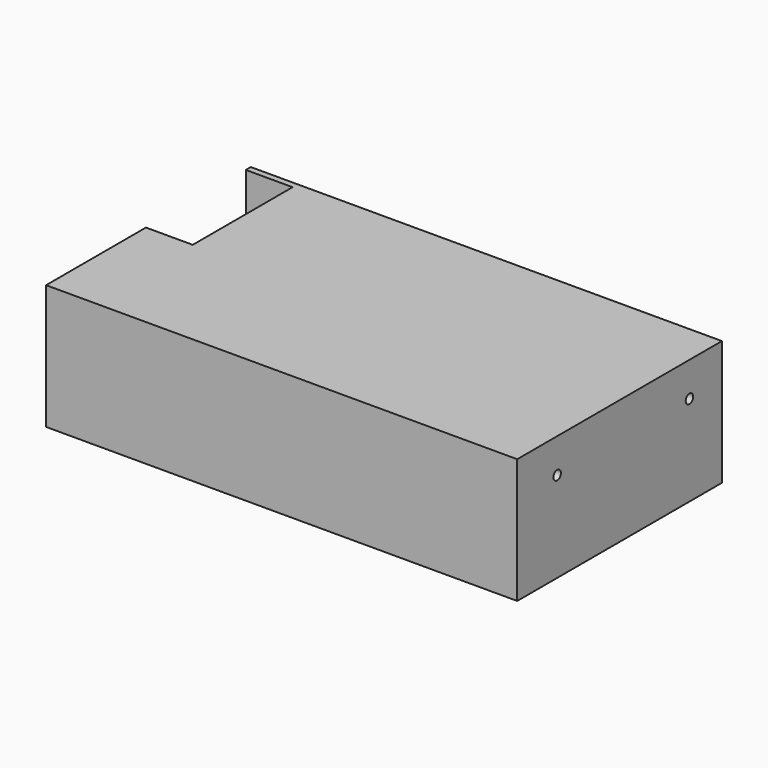
from build123d import *

# Parameters (mm, degrees)
F0_W     = 151
F0_H     = 82
F1_DEPTH = 40
F2_W     = 15
F2_H     = 40
F3_DEPTH = 41
F4_W     = 22.5
F4_H     = 30
F5_DEPTH = 50
F6_R     = 1.5
F7_DEPTH = 5


with BuildPart() as f1:
    # F0 (on Top) → F1 (new body)
    with BuildSketch(Plane.XY):
        Rectangle(F0_W, F0_H)
    extrude(amount=F1_DEPTH)

    # F2 (on face) → F3 (cut)
    with BuildSketch(Plane.XY.offset(40)):
        with Locations((-68, 19)):
            Rectangle(F2_W, F2_H)
    extrude(amount=-F3_DEPTH, mode=Mode.SUBTRACT)

    # F4 (on face) → F5 (cut)
    with BuildSketch(Plane(origin=(-75.5, 0, 0), x_dir=(0, -1, 0), z_dir=(-1, 0, 0))):
        with Locations((24.75, 23)):
            Rectangle(F4_W, F4_H)
    extrude(amount=-F5_DEPTH, mode=Mode.SUBTRACT)

    # F6 (on face) → F7 (cut)
    with BuildSketch(Plane.YZ.offset(75.5)):
        with Locations((-25, 29)):
            Circle(F6_R)
        with Locations((28, 29)):
            Circle(F6_R)
    extrude(amount=-F7_DEPTH, mode=Mode.SUBTRACT)


solid = f1.part
